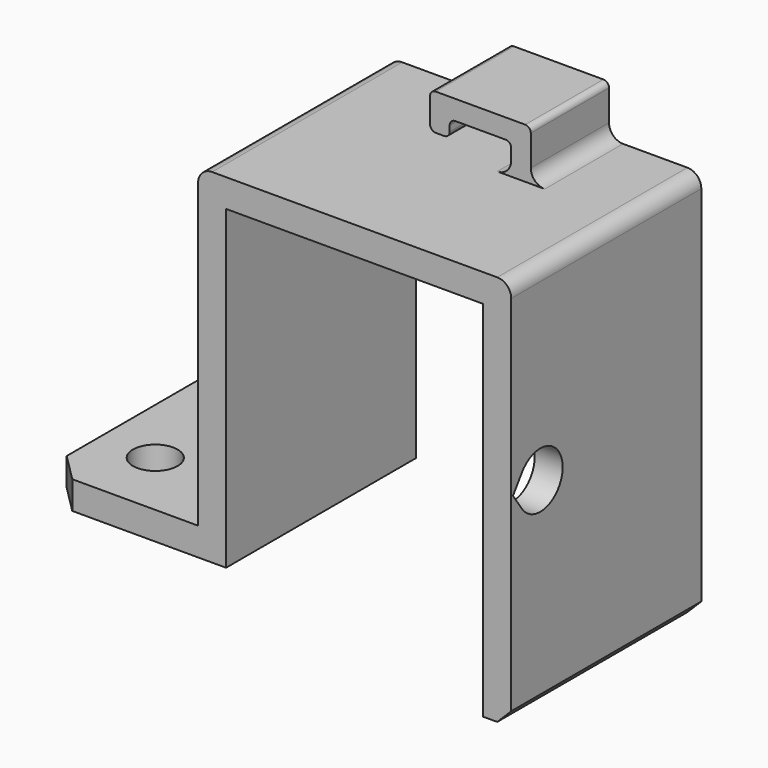
from build123d import *

# Parameters (mm, degrees)
PAD015_DEPTH            = 17
SKETCH026_R             = 1.6
POCKET011_DEPTH         = 5
POCKET012_DEPTH         = 5
FILLET004_R             = 1
CHAMFER002_SIZE         = 2
CHAMFER003_SIZE         = 1
PAD014_DEPTH            = 7
FILLET003_R             = 1
FILLET002_R             = 0.4
BODY006_ROLL_ANGLE      = -90
BODY006_PLACEMENT_ANGLE = 180


with BuildPart() as obj1:
    # Sketch027 → Pad015 (new body)
    with BuildSketch(Plane.XY):
        Polygon((-2, -24.6), (-2, -2), (-13, -2), (-13, 0), (0, 0), (0, -22.6), (18.4, -22.6), (18.4, 3.4), (20.4, 3.4), (20.4, -24.6), align=None)
    extrude(amount=PAD015_DEPTH)

    # Sketch026 (on Face2 of Pad015) → Pocket011 (cut)
    with BuildSketch(Plane.XZ.offset(2)):
        with Locations((-9, 3.655766)):
            Circle(SKETCH026_R)
        with Locations((-9, 12.077909)):
            Circle(SKETCH026_R)
    extrude(amount=-POCKET011_DEPTH, mode=Mode.SUBTRACT)

    # Sketch025 → Pocket012 (cut)
    with BuildSketch(Plane(origin=(18.4, 0, 0), x_dir=(0, -1, 0), z_dir=(-1, 0, 0))):
        with BuildLine():
            ThreePointArc((9.9528471273, 16.0383040886), (11.1, 12.4), (12.2471528727, 16.0383040886))
            Line((11.1, 16.8415491775), (12.2471528727, 16.0383040886))
            Line((9.9528471273, 16.0383040886), (11.1, 16.8415491775))
        make_face()
    extrude(amount=-POCKET012_DEPTH, mode=Mode.SUBTRACT)

    # Fillet004
    fillet004_edges = [obj1.edges().sort_by_distance(p)[0] for p in [
        (-2, -24.6, 8.5),
        (20.4, -24.6, 8.5),
    ]]
    fillet(fillet004_edges, radius=FILLET004_R)

    # Chamfer002
    chamfer002_edges = [obj1.edges().sort_by_distance(p)[0] for p in [
        (-13, -1, 17),
        (-13, -1, 0),
    ]]
    chamfer(chamfer002_edges, length=CHAMFER002_SIZE)

    # Chamfer003
    chamfer003_edges = [obj1.edges().sort_by_distance(p)[0] for p in [
        (20.4, 3.4, 8.5),
    ]]
    chamfer(chamfer003_edges, length=CHAMFER003_SIZE)

    # Sketch028 (on Face1 of Chamfer003) → Pad014 (join)
    with BuildSketch(Plane(origin=(0, 0, 0), x_dir=(1, 0, 0), z_dir=(0, 0, -1))):
        Polygon((13.8, 24.6), (12.4, 24.6), (12.4, 26.8), (8, 26.8), (8, 25.6), (6.6, 25.6), (6.6, 28.2), (13.8, 28.2), align=None)
    extrude(amount=-PAD014_DEPTH)

    # Fillet003
    fillet003_edges = [obj1.edges().sort_by_distance(p)[0] for p in [
        (12.4, -24.6, 3.5),
        (13.8, -24.6, 3.5),
    ]]
    fillet(fillet003_edges, radius=FILLET003_R)

    # Fillet002
    fillet002_edges = [obj1.edges().sort_by_distance(p)[0] for p in [
        (13.8, -28.2, 3.5),
        (6.6, -28.2, 3.5),
        (6.6, -25.6, 3.5),
        (12.4, -26.8, 3.5),
        (8, -26.8, 3.5),
        (8, -25.6, 3.5),
    ]]
    fillet(fillet002_edges, radius=FILLET002_R)


with BuildPart() as obj1_1:
    # Body006 roll: moved
    add(obj1.part.rotate(Axis((0, 0, 0), (1, 0, 0)), BODY006_ROLL_ANGLE))


with BuildPart() as obj1_2:
    # Body006 placement: moved
    add(obj1_1.part.moved(Location((-26.5, 36.8, 2.5))).rotate(Axis((-26.5, 36.8, 2.5), (0, 0, 1)), BODY006_PLACEMENT_ANGLE))


with BuildPart() as part_mirroring001:
    # Part__Mirroring001: instance of obj1
    add(obj1_2.part.mirror(Plane(origin=(0, 0, 0), x_dir=(0, -1, 0), z_dir=(1, 0, 0))))


solid = part_mirroring001.part
